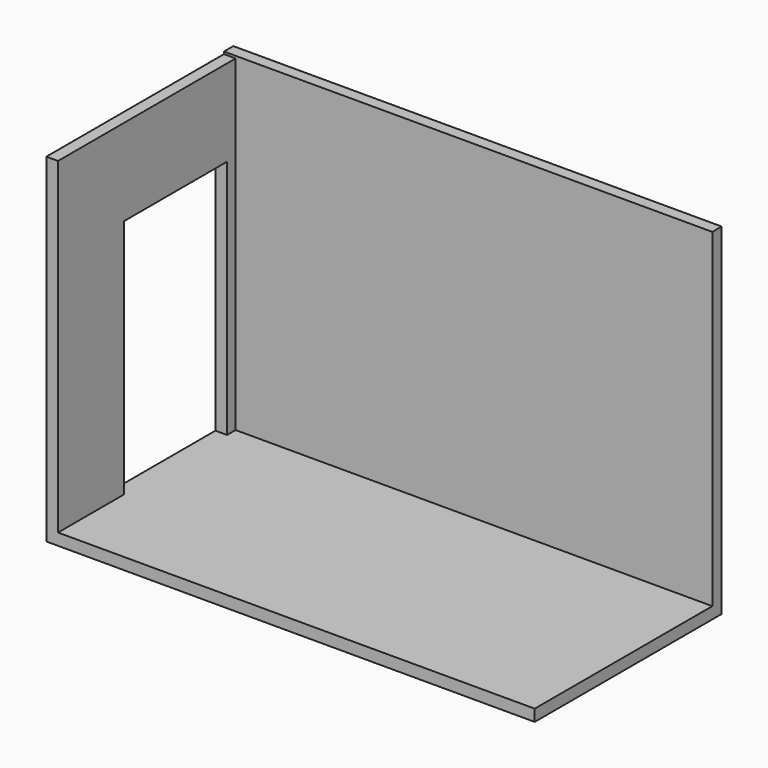
from build123d import *

# Parameters (mm, degrees)
F0_W      = 49.6836304665
F0_H      = 40.4926985502
F1_DEPTH  = 100
F2_DEPTH  = 4280
F3_DEPTH  = 2000
F4_W      = 4280
F4_H      = 100
F6_DEPTH  = 2820
F5_W      = 100
F5_H      = 1900
F7_DEPTH  = 2800
F8_W      = 1132.6048374176
F8_H      = 2209.3509674072
F9_DEPTH  = 100
F10_DEPTH = 57.9633247107
F11_DEPTH = 87.9824329168
F12_DEPTH = 149.9407831579
F13_DEPTH = 100


with BuildPart() as f1:
    # F0 (on Top) → F1 (new body)
    with BuildSketch(Plane.XY):
        with Locations((24.8418152332, -20.2463492751)):
            Rectangle(F0_W, F0_H)
    extrude(amount=F1_DEPTH)

    # F2 (add): a face of the model
    f2_faces = [f1.faces().sort_by_distance(p)[0] for p in [
        (0, -20.2463492751, 50),
    ]]
    extrude(f2_faces, amount=-F2_DEPTH)

    # F3 (add): a face of the model
    f3_faces = [f1.faces().sort_by_distance(p)[0] for p in [
        (2140, 0, 50),
    ]]
    extrude(f3_faces, amount=-F3_DEPTH)

    # F4 (on face) → F6 (join)
    with BuildSketch(Plane.XY.offset(100)):
        with Locations((2140, -50)):
            Rectangle(F4_W, F4_H)
    extrude(amount=F6_DEPTH)

    # F5 (on face) → F7 (join)
    with BuildSketch(Plane.XY.offset(100)):
        with Locations((50, -1050)):
            Rectangle(F5_W, F5_H)
    extrude(amount=F7_DEPTH)

    # F8 (on face) → F9 (cut)
    with BuildSketch(Plane.YZ.offset(100)):
        with Locations((-815.6238794327, 1204.6754837036)):
            Rectangle(F8_W, F8_H)
    extrude(amount=-F9_DEPTH, mode=Mode.SUBTRACT)

    # F10 (cut): a face of the model
    f10_faces = [f1.faces().sort_by_distance(p)[0] for p in [
        (50, -249.3214607239, 1204.6754837036),
    ]]
    extrude(f10_faces, amount=-F10_DEPTH, mode=Mode.SUBTRACT)

    # F11 (add): a face of the model
    f11_faces = [f1.faces().sort_by_distance(p)[0] for p in [
        (50, -1381.9262981415, 1204.6754837036),
    ]]
    extrude(f11_faces, amount=F11_DEPTH)

    # F12 (add): a face of the model
    f12_faces = [f1.faces().sort_by_distance(p)[0] for p in [
        (50, -742.6510006189, 2309.3509674072),
    ]]
    extrude(f12_faces, amount=F12_DEPTH)

    # F13 (cut): a face of the model
    f13_faces = [f1.faces().sort_by_distance(p)[0] for p in [
        (4280, -35.3926546052, 1460),
    ]]
    extrude(f13_faces, amount=-F13_DEPTH, mode=Mode.SUBTRACT)


solid = f1.part
